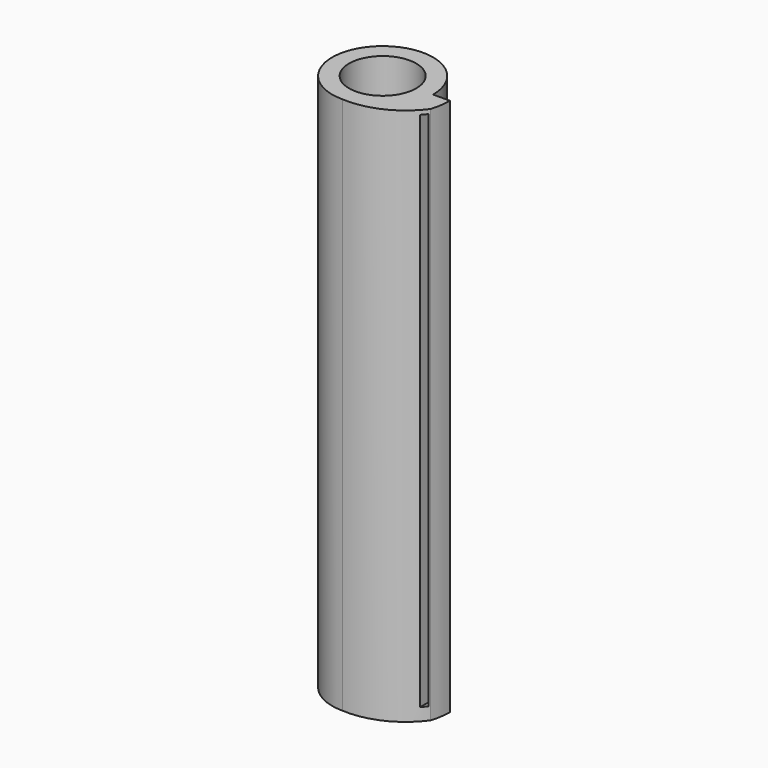
from build123d import *

# Parameters (mm, degrees)
F0_R     = 4
F1_DEPTH = 64
F2_DEPTH = 64
F3_W     = 0.5
F3_H     = 62
F4_DEPTH = 25


with BuildPart() as f1:
    # F0 (on Top) → F1 (new body)
    with BuildSketch(Plane.XY):
        with BuildLine():
            ThreePointArc((0, -6), (4.242641, -4.242641), (6, 0))
            ThreePointArc((6, 0), (-4.242641, 4.242641), (0, -6))
        make_face()
        Circle(F0_R, mode=Mode.SUBTRACT)
    extrude(amount=F1_DEPTH)

    # F0 (on Top) → F2 (join)
    with BuildSketch(Plane.XY):
        with BuildLine():
            Line((8, 0), (6, 0))
            ThreePointArc((6, 0), (4.242641, -4.242641), (0, -6))
            ThreePointArc((0, -6), (4.274303, -5.189002), (7.626499, -2.415889))
            ThreePointArc((7.626499, -2.415889), (7.906073, -1.222295), (8, 0))
        make_face()
    extrude(amount=F2_DEPTH)

    # F3 (on face) → F4 (cut)
    with BuildSketch(Plane(origin=(0, 0, 0), x_dir=(-1, 0, 0), z_dir=(0, 1, 0))):
        with Locations((-7.25, 32.5)):
            Rectangle(F3_W, F3_H)
    extrude(amount=-F4_DEPTH, mode=Mode.SUBTRACT)


solid = f1.part
